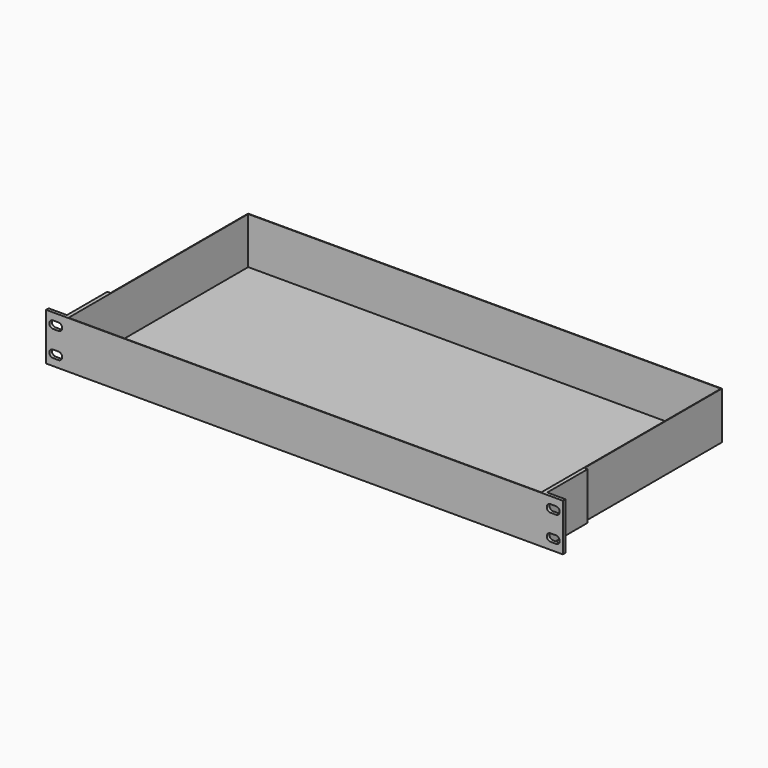
from build123d import *

# Parameters (mm, degrees)
F0_W     = 441
F0_H     = 210
F1_DEPTH = 44
F2_T     = -0.5
F4_DEPTH = 44
F7_DEPTH = 3


with BuildPart() as f1:
    # F0 (on Top) → F1 (new body)
    with BuildSketch(Plane.XY):
        Rectangle(F0_W, F0_H)
    extrude(amount=F1_DEPTH)

    # F2
    f2_openings = [f1.faces().sort_by_distance(p)[0] for p in [
        (0, 0, 44),
    ]]
    offset(amount=F2_T, openings=f2_openings)


with BuildPart() as f4:
    # F3 (on face) → F4 (new body)
    with BuildSketch(Plane(origin=(0, 0, 0), x_dir=(1, 0, 0), z_dir=(0, 0, -1))):
        Polygon((-223.5, 55), (-220.5, 55), (-220.5, 105), (-240.5, 105), (-240.5, 102), (-223.5, 102), align=None)
        Polygon((220.5, 55), (223.5, 55), (223.5, 102), (240.5, 102), (240.5, 105), (220.5, 105), align=None)
    extrude(amount=-F4_DEPTH)

    # F5: union F1
    add(f1.part)

    # F6 (on face) → F7 (cut)
    with BuildSketch(Plane.XZ.offset(105)):
        with BuildLine():
            Line((-234.112281, 37.43943), (-233.890185, 37.439508))
            ThreePointArc((-233.890185, 37.439508), (-234.001233, 37.441231), (-234.112281, 37.43943))
        make_face()
        with BuildLine():
            Line((-229.001233, 37.441231), (-233.890185, 37.439508))
            Line((-233.890185, 37.439508), (-234.112281, 37.43943))
            ThreePointArc((-234.112281, 37.43943), (-237.499245, 33.868521), (-233.966869, 30.441388))
            Line((-233.966869, 30.441388), (-229.000111, 30.441232))
            ThreePointArc((-229.000111, 30.441232), (-225.5, 33.941793), (-229.001233, 37.441231))
        make_face()
        with BuildLine():
            Line((-229.000111, 13.558768), (-233.966869, 13.558612))
            ThreePointArc((-233.966869, 13.558612), (-237.499245, 10.131479), (-234.112281, 6.56057))
            Line((-234.112281, 6.56057), (-233.890185, 6.560492))
            Line((-233.890185, 6.560492), (-229.001233, 6.558769))
            ThreePointArc((-229.001233, 6.558769), (-225.5, 10.058207), (-229.000111, 13.558768))
        make_face()
        with BuildLine():
            Line((-233.890185, 6.560492), (-234.112281, 6.56057))
            ThreePointArc((-234.112281, 6.56057), (-234.001233, 6.558769), (-233.890185, 6.560492))
        make_face()
        with BuildLine():
            ThreePointArc((233.966869, 30.441388), (237.499245, 33.868521), (234.112281, 37.43943))
            Line((234.112281, 37.43943), (233.890185, 37.439508))
            Line((233.890185, 37.439508), (229.001233, 37.441231))
            ThreePointArc((229.001233, 37.441231), (225.5, 33.941793), (229.000111, 30.441232))
            Line((229.000111, 30.441232), (233.966869, 30.441388))
        make_face()
        with BuildLine():
            Line((233.890185, 37.439508), (234.112281, 37.43943))
            ThreePointArc((234.112281, 37.43943), (234.001233, 37.441231), (233.890185, 37.439508))
        make_face()
        with BuildLine():
            ThreePointArc((234.112281, 6.56057), (237.499245, 10.131479), (233.966869, 13.558612))
            Line((233.966869, 13.558612), (229.000111, 13.558768))
            ThreePointArc((229.000111, 13.558768), (225.5, 10.058207), (229.001233, 6.558769))
            Line((229.001233, 6.558769), (233.890185, 6.560492))
            Line((233.890185, 6.560492), (234.112281, 6.56057))
        make_face()
        with BuildLine():
            ThreePointArc((233.890185, 6.560492), (234.001233, 6.558769), (234.112281, 6.56057))
            Line((234.112281, 6.56057), (233.890185, 6.560492))
        make_face()
    extrude(amount=-F7_DEPTH, mode=Mode.SUBTRACT)


solid = f4.part
